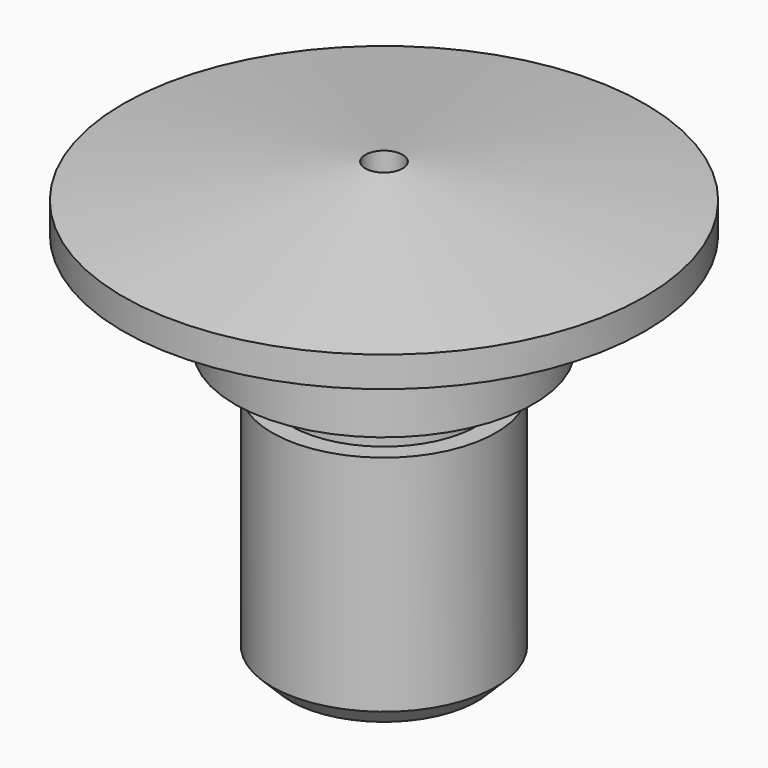
from build123d import *

# Parameters (mm, degrees)
F2_R     = 0.5
F3_DEPTH = 25


with BuildPart() as f1:
    # F0 (on Front) → F1 (revolve)
    with BuildSketch(Plane.XZ):
        Polygon((0, 0), (0, 12), (-7, 11.016214), (-7, 10.2), (-4, 10.2), (-4, 7.5), (-2.5, 7.5), (-2.5, 6.5), (-3, 6.5), (-3, 0.5), (-2.5, 0), align=None)
    revolve(axis=Axis((0, 0, 6), (0, 0, 1)))

    # F2 (on Top) → F3 (cut)
    with BuildSketch(Plane.XY):
        Circle(F2_R)
    extrude(amount=F3_DEPTH, mode=Mode.SUBTRACT)


solid = f1.part
